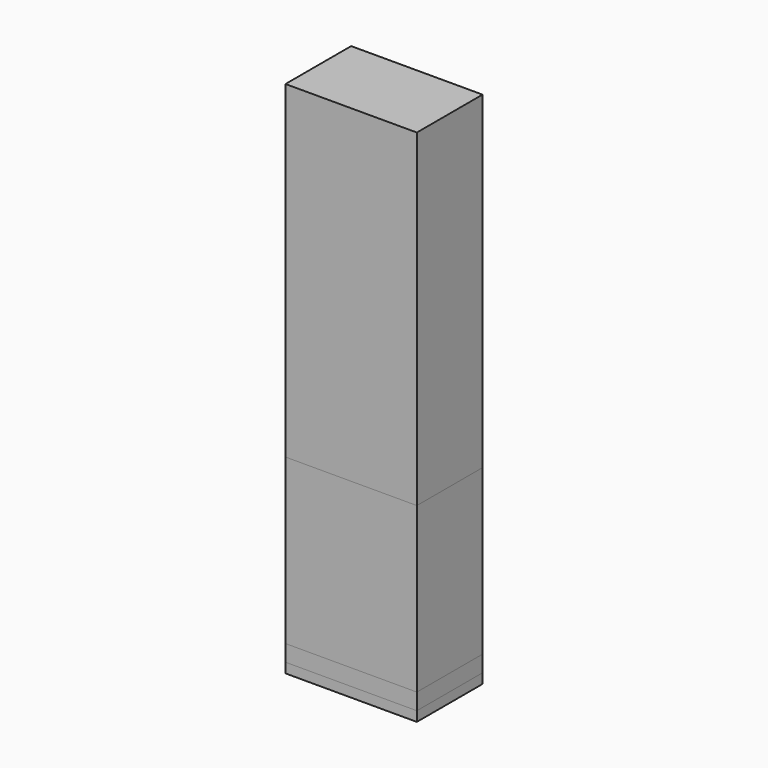
from build123d import *

# Parameters (mm, degrees)
F0_W     = 40
F0_H     = 100
F1_DEPTH = 25
F0_H_2   = 50
F2_DEPTH = 25
F0_H_3   = 5
F3_DEPTH = 25
F4_DEPTH = 25


with BuildPart() as f1:
    # F0 (on Front) → F1 (new body)
    with BuildSketch(Plane.XZ):
        with Locations((0, 88)):
            Rectangle(F0_W, F0_H)
    extrude(amount=F1_DEPTH)


with BuildPart() as f2:
    # F0 (on Front) → F2 (new body)
    with BuildSketch(Plane.XZ):
        with Locations((0, 13)):
            Rectangle(F0_W, F0_H_2)
    extrude(amount=F2_DEPTH)


with BuildPart() as f3:
    # F0 (on Front) → F3 (new body)
    with BuildSketch(Plane.XZ):
        with Locations((0, -14.5)):
            Rectangle(F0_W, F0_H_3)
    extrude(amount=F3_DEPTH)


with BuildPart() as f4:
    # F0 (on Front) → F4 (new body)
    with BuildSketch(Plane.XZ):
        Polygon((-20, -17), (-20, -20), (0, -20), (20, -20), (20, -17), align=None)
    extrude(amount=F4_DEPTH)


solid = Compound([f1.part, f2.part, f3.part, f4.part])
